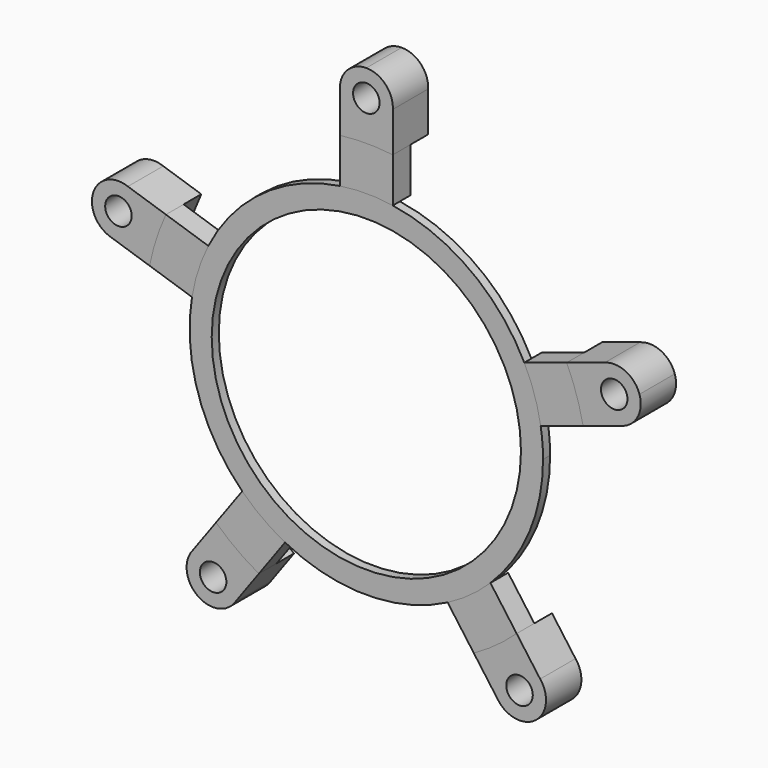
from build123d import *

# Parameters (mm, degrees)
F0_R     = 1.5
F1_DEPTH = 5
F0_R_2   = 17.5
F2_DEPTH = 1
F3_DEPTH = 2.5


with BuildPart() as f1:
    # F0 (on Front) → F1 (new body)
    with BuildSketch(Plane.XZ):
        with BuildLine():
            ThreePointArc((-26.9852390339, 11.9183419267), (-29.3497180345, 11.8227939597), (-30.909336738, 10.0430524452))
            ThreePointArc((-30.909336738, 10.0430524452), (-30.6936846646, 7.6864903037), (-28.836942592, 6.2193843702))
            Line((-28.836942592, 6.2193843702), (-24.5308995747, 4.8202661811))
            ThreePointArc((-24.5308995747, 4.8202661811), (-23.7764129074, 7.7254248594), (-22.6791960166, 10.5192237376))
            Line((-22.6791960166, 10.5192237376), (-26.9852390339, 11.9183419267))
        make_face()
        with Locations((-28.0561672307, 9.1160013341)):
            Circle(F0_R, mode=Mode.SUBTRACT)
    extrude(amount=-F1_DEPTH)


with BuildPart() as f1b:
    # F0 (on Front) → F1, piece 2 (new body)
    with BuildSketch(Plane.XZ):
        with BuildLine():
            Line((2.9961192941, 24.8198160585), (2.9961192941, 29.3474576271))
            ThreePointArc((2.9961192941, 29.3474576271), (2.174583537, 31.5666848915), (0, 32.5))
            ThreePointArc((0, 32.5), (-2.174583537, 31.5666848915), (-2.9961192941, 29.3474576271))
            Line((-2.9961192941, 29.3474576271), (-2.9961192941, 24.8198160585))
            ThreePointArc((-2.9961192941, 24.8198160585), (0, 25), (2.9961192941, 24.8198160585))
        make_face()
        with Locations((0, 29.5)):
            Circle(F0_R, mode=Mode.SUBTRACT)
    extrude(amount=-F1_DEPTH)


with BuildPart() as f1c:
    # F0 (on Front) → F1, piece 3 (new body)
    with BuildSketch(Plane.XZ):
        with BuildLine():
            ThreePointArc((28.836942592, 6.2193843702), (30.6936846628, 7.6864903005), (30.9093367402, 10.0430524383))
            ThreePointArc((30.9093367402, 10.0430524383), (29.3497180378, 11.8227939581), (26.9852390339, 11.9183419267))
            Line((26.9852390339, 11.9183419267), (22.6791960166, 10.5192237376))
            ThreePointArc((22.6791960166, 10.5192237376), (23.7764129074, 7.7254248594), (24.5308995747, 4.8202661811))
            Line((24.5308995747, 4.8202661811), (28.836942592, 6.2193843702))
        make_face()
        with Locations((28.0561672307, 9.1160013341)):
            Circle(F0_R, mode=Mode.SUBTRACT)
    extrude(amount=-F1_DEPTH)


with BuildPart() as f1d:
    # F0 (on Front) → F1, piece 4 (new body)
    with BuildSketch(Plane.XZ):
        with BuildLine():
            ThreePointArc((14.8260913594, -25.5036666972), (16.7951568352, -26.8161726716), (19.1030207478, -26.2930522821))
            ThreePointArc((19.1030207478, -26.2930522821), (20.313706884, -24.2597963708), (19.6739142116, -21.9815172269))
            Line((19.6739142116, -21.9815172269), (17.0126332699, -18.3185782534))
            ThreePointArc((17.0126332699, -18.3185782534), (14.6946313073, -20.2254248594), (12.1648104177, -21.8407277237))
            Line((12.1648104177, -21.8407277237), (14.8260913594, -25.5036666972))
        make_face()
        with Locations((17.3396649426, -23.8660013341)):
            Circle(F0_R, mode=Mode.SUBTRACT)
    extrude(amount=-F1_DEPTH)


with BuildPart() as f1e:
    # F0 (on Front) → F1, piece 5 (new body)
    with BuildSketch(Plane.XZ):
        with BuildLine():
            ThreePointArc((-19.6739142116, -21.9815172269), (-20.3137068702, -24.259796475), (-19.1030205777, -26.2930524057))
            ThreePointArc((-19.1030205777, -26.2930524057), (-16.7951567318, -26.8161726525), (-14.8260913594, -25.5036666972))
            Line((-14.8260913594, -25.5036666972), (-12.1648104177, -21.8407277237))
            ThreePointArc((-12.1648104177, -21.8407277237), (-14.6946313073, -20.2254248594), (-17.0126332699, -18.3185782534))
            Line((-17.0126332699, -18.3185782534), (-19.6739142116, -21.9815172269))
        make_face()
        with Locations((-17.3396649426, -23.8660013341)):
            Circle(F0_R, mode=Mode.SUBTRACT)
    extrude(amount=-F1_DEPTH)


with BuildPart() as f2:
    # F0 (on Front) → F2 (new body)
    with BuildSketch(Plane.XZ):
        with BuildLine():
            ThreePointArc((17.8806329953, 8.9600760983), (11.7557050458, 16.1803398875), (2.9961192941, 19.7743083109))
            ThreePointArc((2.9961192941, 19.7743083109), (0, 20), (-2.9961192941, 19.7743083109))
            ThreePointArc((-2.9961192941, 19.7743083109), (-11.7557050458, 16.1803398875), (-17.8806329953, 8.9600760983))
            ThreePointArc((-17.8806329953, 8.9600760983), (-19.0211303259, 6.1803398875), (-19.7323365534, 3.2611185418))
            ThreePointArc((-19.7323365534, 3.2611185418), (-19.0211303259, -6.1803398875), (-14.0469582255, -14.2366767404))
            ThreePointArc((-14.0469582255, -14.2366767404), (-11.7557050458, -16.1803398875), (-9.1991353733, -17.7588262107))
            ThreePointArc((-9.1991353733, -17.7588262107), (0, -20), (9.1991353733, -17.7588262107))
            ThreePointArc((9.1991353733, -17.7588262107), (11.7557050458, -16.1803398875), (14.0469582255, -14.2366767404))
            ThreePointArc((14.0469582255, -14.2366767404), (18.4518178577, -7.7155957479), (20, 0))
            ThreePointArc((20, 0), (19.9329718189, 1.636042318), (19.7323365534, 3.2611185418))
            ThreePointArc((19.7323365534, 3.2611185418), (19.0211303259, 6.1803398875), (17.8806329953, 8.9600760983))
        make_face()
        Circle(F0_R_2, mode=Mode.SUBTRACT)
    extrude(amount=-F2_DEPTH)


with BuildPart() as f3:
    # F0 (on Front) → F3 (new body)
    with BuildSketch(Plane.XZ):
        with BuildLine():
            Line((-14.0469582255, -14.2366767404), (-17.0126332699, -18.3185782534))
            ThreePointArc((-17.0126332699, -18.3185782534), (-14.6946313073, -20.2254248594), (-12.1648104177, -21.8407277237))
            Line((-12.1648104177, -21.8407277237), (-9.1991353733, -17.7588262107))
            ThreePointArc((-9.1991353733, -17.7588262107), (-11.7557050458, -16.1803398875), (-14.0469582255, -14.2366767404))
        make_face()
    extrude(amount=-F3_DEPTH)


with BuildPart() as f3b:
    # F0 (on Front) → F3, piece 2 (new body)
    with BuildSketch(Plane.XZ):
        with BuildLine():
            Line((-17.8806329953, 8.9600760983), (-22.6791960166, 10.5192237376))
            ThreePointArc((-22.6791960166, 10.5192237376), (-23.7764129074, 7.7254248594), (-24.5308995747, 4.8202661811))
            Line((-24.5308995747, 4.8202661811), (-19.7323365534, 3.2611185418))
            ThreePointArc((-19.7323365534, 3.2611185418), (-19.0211303259, 6.1803398875), (-17.8806329953, 8.9600760983))
        make_face()
    extrude(amount=-F3_DEPTH)


with BuildPart() as f3c:
    # F0 (on Front) → F3, piece 3 (new body)
    with BuildSketch(Plane.XZ):
        with BuildLine():
            Line((2.9961192941, 19.7743083109), (2.9961192941, 24.8198160585))
            ThreePointArc((2.9961192941, 24.8198160585), (0, 25), (-2.9961192941, 24.8198160585))
            Line((-2.9961192941, 24.8198160585), (-2.9961192941, 19.7743083109))
            ThreePointArc((-2.9961192941, 19.7743083109), (0, 20), (2.9961192941, 19.7743083109))
        make_face()
    extrude(amount=-F3_DEPTH)


with BuildPart() as f3d:
    # F0 (on Front) → F3, piece 4 (new body)
    with BuildSketch(Plane.XZ):
        with BuildLine():
            ThreePointArc((24.5308995747, 4.8202661811), (23.7764129074, 7.7254248594), (22.6791960166, 10.5192237376))
            Line((22.6791960166, 10.5192237376), (17.8806329953, 8.9600760983))
            ThreePointArc((17.8806329953, 8.9600760983), (19.0211303259, 6.1803398875), (19.7323365534, 3.2611185418))
            Line((19.7323365534, 3.2611185418), (24.5308995747, 4.8202661811))
        make_face()
    extrude(amount=-F3_DEPTH)


with BuildPart() as f3e:
    # F0 (on Front) → F3, piece 5 (new body)
    with BuildSketch(Plane.XZ):
        with BuildLine():
            ThreePointArc((12.1648104177, -21.8407277237), (14.6946313073, -20.2254248594), (17.0126332699, -18.3185782534))
            Line((17.0126332699, -18.3185782534), (14.0469582255, -14.2366767404))
            ThreePointArc((14.0469582255, -14.2366767404), (11.7557050458, -16.1803398875), (9.1991353733, -17.7588262107))
            Line((9.1991353733, -17.7588262107), (12.1648104177, -21.8407277237))
        make_face()
    extrude(amount=-F3_DEPTH)


solid = Compound([f1.part, f1b.part, f1c.part, f1d.part, f1e.part, f2.part, f3.part, f3b.part, f3c.part, f3d.part, f3e.part])
